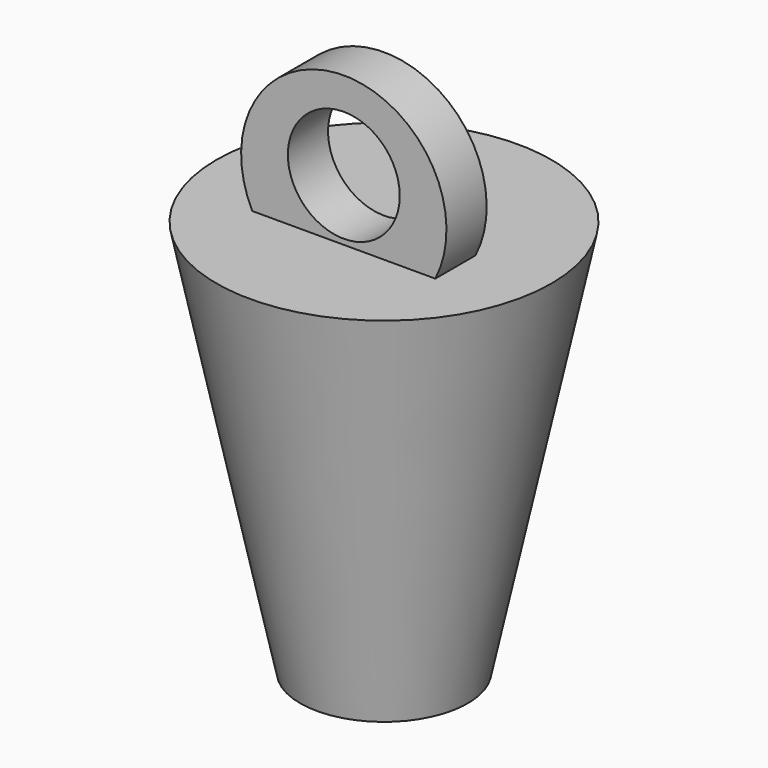
from build123d import *

# Parameters (mm, degrees)
F2_R     = 0.057539
F3_DEPTH = 12.7
F4_R     = 3.113486
F5_DEPTH = 1.524
F6_R     = 1.696249
F7_DEPTH = 27.432


with BuildPart() as f1:
    # F0 (on Front) → F1 (revolve)
    with BuildSketch(Plane.XZ):
        Polygon((-2.54, 0), (0, 0), (0, 12.033645), (-5.08, 12.033645), align=None)
    revolve(axis=Axis((0, 0, 6.016822), (0, 0, -1)))

    # F2 (on Right) → F3 (cut, symmetric)
    with BuildSketch(Plane.YZ):
        with Locations((0, 19.658387)):
            Circle(F2_R)
    extrude(amount=F3_DEPTH, both=True, mode=Mode.SUBTRACT)

    # F4 (on Front) → F5 (join)
    with BuildSketch(Plane.XZ):
        with Locations((0, 13.446124)):
            Circle(F4_R)
    extrude(amount=F5_DEPTH)

    # F6 (on Front) → F7 (cut)
    with BuildSketch(Plane.XZ):
        with Locations((0, 13.890625)):
            Circle(F6_R)
    extrude(amount=F7_DEPTH, mode=Mode.SUBTRACT)


solid = f1.part
